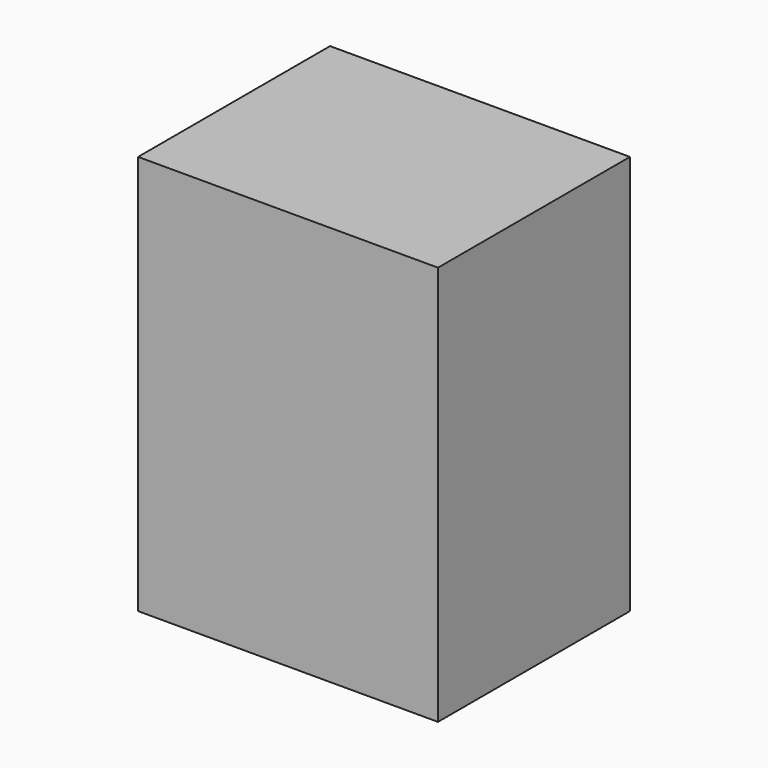
from build123d import *

# Parameters (mm, degrees)
CYLINDER_R     = 10
CYLINDER_DEPTH = 40
BOX_W          = 30
BOX_H          = 24
BOX_DEPTH      = 40


with BuildPart() as cilindro:
    # Cylinder → Cylinder (new body)
    with BuildSketch(Plane(origin=(11, 12, -16), x_dir=(1, 0, 0), z_dir=(0, 0, 1))):
        Circle(CYLINDER_R)
    extrude(amount=CYLINDER_DEPTH)


with BuildPart() as cut:
    # Box → Box (new body)
    with BuildSketch(Plane(origin=(-1, 0, -12), x_dir=(1, 0, 0), z_dir=(0, 0, 1))):
        with Locations((15, 12)):
            Rectangle(BOX_W, BOX_H)
    extrude(amount=BOX_DEPTH)

    # Cut: cut Cilindro
    add(cilindro.part, mode=Mode.SUBTRACT)


solid = cut.part
